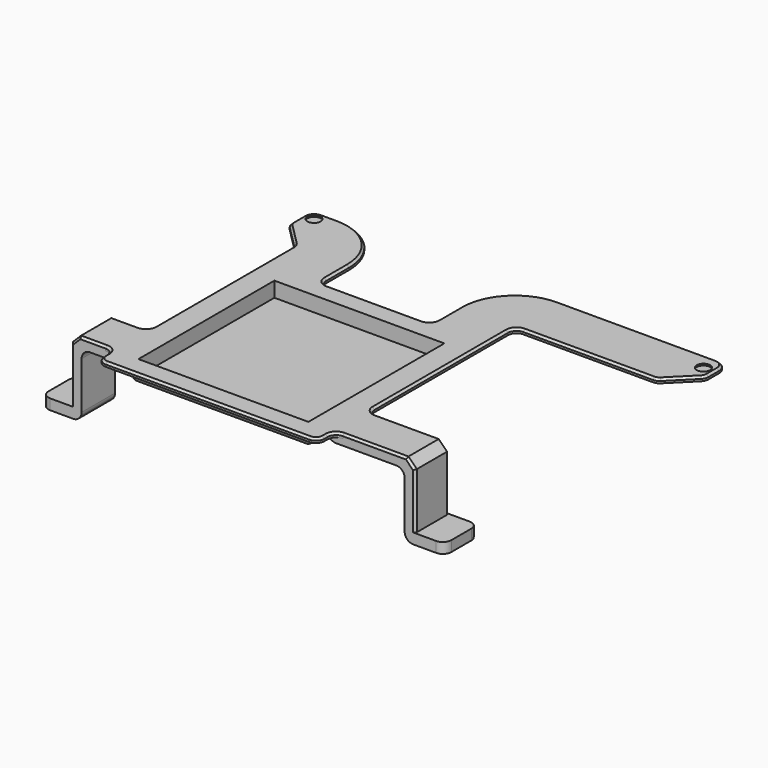
from build123d import *

# Parameters (mm, degrees)
SKETCH002_R        = 1.8
SKETCH002_W        = 81
SKETCH002_H        = 81
PAD_DEPTH          = 2
SKETCH003_R        = 3.2
POCKET_DEPTH       = 0.8
SKETCH006_R        = 1.8
PAD002_DEPTH       = 0.12
PAD001_DEPTH       = 20
CHAMFER001_SIZE2   = 2.99
CHAMFER001_SIZE    = 7.5
CHAMFER002_SIZE    = 4
FILLET_R           = 4
CHAMFER003_SIZE    = 1
SKETCH005_R        = 2.2
POCKET001_DEPTH    = 33.501
SKETCH010_R        = 2.2
PAD006_DEPTH       = 0.12
SKETCH007_W        = 85
SKETCH007_H        = 85
SKETCH007_W_2      = 81
SKETCH007_H_2      = 81
PAD003_DEPTH       = 7
SKETCH008_W        = 81
SKETCH008_H        = 81
SKETCH008_R        = 2.5
PAD004_DEPTH       = 1.8
CHAMFER_SIZE       = 1.2
SKETCH009_R        = 2.5
PAD005_DEPTH       = 0.12
FILLET001_R        = 2
POCKET002_DEPTH    = 1.68
POLARPATTERN_COUNT = 8
SKETCH014_R        = 39
POCKET003_DEPTH    = 0.1


with BuildPart() as part:
    # Sketch002 → Pad (new body)
    with BuildSketch(Plane.XY):
        with BuildLine():
            Line((-65, 88.5), (-65, 80))
            Line((-65, 80), (-52.5, 67.5))
            Line((-52.5, 67.5), (-52.5, -20))
            Line((-52.5, -20), (-73, -20))
            Line((-73, -20), (-73, -40))
            Line((-73, -40), (-52.5, -40))
            Line((-52.5, -40), (-52.5, -50))
            Line((-52.5, -50), (52.5, -50))
            Line((52.5, -50), (52.5, -40))
            Line((52.5, -40), (91, -40))
            Line((91, -40), (91, -20))
            Line((91, -20), (52.5, -20))
            Line((52.5, -20), (52.5, 67.5))
            Line((52.5, 67.5), (120, 67.5))
            Line((120, 67.5), (133, 80.5))
            Line((133, 80.5), (133, 88.5))
            ThreePointArc((133, 88.5), (131.535534, 92.035534), (128, 93.5))
            Line((128, 93.5), (52.5, 93.5))
            ThreePointArc((52.5, 93.5), (34.115224, 85.884776), (26.5, 67.5))
            Line((26.5, 50), (26.5, 67.5))
            Line((-26.5, 50), (26.5, 50))
            Line((-26.5, 67.5), (-26.5, 50))
            ThreePointArc((-26.5, 67.5), (-34.115224, 85.884776), (-52.5, 93.5))
            Line((-60, 93.5), (-52.5, 93.5))
            ThreePointArc((-60, 93.5), (-63.535534, 92.035534), (-65, 88.5))
        make_face()
        with Locations((-60, 88.5)):
            Circle(SKETCH002_R, mode=Mode.SUBTRACT)
        with Locations((128, 85.5)):
            Circle(SKETCH002_R, mode=Mode.SUBTRACT)
        Rectangle(SKETCH002_W, SKETCH002_H, mode=Mode.SUBTRACT)
    extrude(amount=PAD_DEPTH)

    # Sketch003 → Pocket (cut)
    with BuildSketch(Plane.XY.offset(2)):
        with Locations((-60, 88.5)):
            Circle(SKETCH003_R)
        with Locations((128, 85.5)):
            Circle(SKETCH003_R)
    extrude(amount=-POCKET_DEPTH, mode=Mode.SUBTRACT)

    # Sketch006 → Pad002 (join)
    with BuildSketch(Plane.XY.offset(1.2)):
        with Locations((-60, 88.5)):
            Circle(SKETCH006_R)
        with Locations((128, 85.5)):
            Circle(SKETCH006_R)
    extrude(amount=-PAD002_DEPTH)

    # Sketch004 (on DatumPlane) → Pad001 (join)
    with BuildSketch(Plane(origin=(-87, -40, 0), x_dir=(-1, 0, 0), z_dir=(0, 1, 0))):
        Polygon((-178, 0), (-139.5, 0), (-139.5, -3), (-173, -3), (-173, -33.5), (-192, -33.5), (-192, -28.5), (-178, -28.5), align=None)
        Polygon((-14, 0), (-34.5, 0), (-34.5, -3), (-19, -3), (-19, -33.5), (0, -33.5), (0, -28.5), (-14, -28.5), align=None)
    extrude(amount=PAD001_DEPTH)

    # Chamfer001
    chamfer001_edges = [part.edges().sort_by_distance(p)[0] for p in [
        (-52.5, -30, 0),
        (52.5, -30, 0),
    ]]
    chamfer001_side = part.faces().sort_by_distance((-56.25, 91.054673, 0))[0]
    chamfer(chamfer001_edges, length=CHAMFER001_SIZE, length2=CHAMFER001_SIZE2, reference=chamfer001_side)

    # Chamfer002
    chamfer002_edges = [part.edges().sort_by_distance(p)[0] for p in [
        (91, -30, 2),
        (-73, -30, 2),
    ]]
    chamfer(chamfer002_edges, length=CHAMFER002_SIZE)

    # Fillet
    fillet_edges = [part.edges().sort_by_distance(p)[0] for p in [
        (105, -40, -31),
        (-87, -40, -31),
        (-68, -30, -33.5),
        (86, -30, -33.5),
        (-87, -20, -31),
        (105, -20, -31),
        (86, -30, -3),
        (-68, -30, -3),
        (52.5, -20, 1),
        (52.5, -40, 1),
        (52.5, -50, 1),
        (-52.5, -50, 1),
        (-52.5, -40, 1),
        (-26.5, 50, 1),
        (26.5, 50, 1),
        (52.5, 67.5, 1),
        (120, 67.5, 1),
        (133, 80.5, 1),
        (-52.5, 67.5, 1),
        (-65, 80, 1),
        (-52.5, -20, 1),
    ]]
    fillet(fillet_edges, radius=FILLET_R)

    # Chamfer003
    chamfer003_edges = [part.edges().sort_by_distance(p)[0] for p in [
        (0, 50, 2),
        (0, -50, 2),
        (91, -40, -15.25),
        (89, -40, 0),
        (89, -20, 0),
        (91, -20, -15.25),
        (-71, -40, 0),
        (-71, -20, 0),
        (-73, -20, -15.25),
        (-73, -40, -15.25),
    ]]
    chamfer(chamfer003_edges, length=CHAMFER003_SIZE)

    # Sketch005 → Pocket001 (cut, through all)
    with BuildSketch(Plane.XY):
        with Locations((-80, -30)):
            Circle(SKETCH005_R)
        with Locations((98, -30)):
            Circle(SKETCH005_R)
    extrude(amount=-POCKET001_DEPTH, mode=Mode.SUBTRACT)

    # Sketch010 (on Face105 of Pocket001) → Pad006 (join)
    with BuildSketch(Plane.XY.offset(-28.5)):
        with Locations((-80, -30)):
            Circle(SKETCH010_R)
        with Locations((98, -30)):
            Circle(SKETCH010_R)
    extrude(amount=-PAD006_DEPTH)

    # Sketch007 → Pad003 (join)
    with BuildSketch(Plane.XY):
        Rectangle(SKETCH007_W, SKETCH007_H)
        Rectangle(SKETCH007_W_2, SKETCH007_H_2, mode=Mode.SUBTRACT)
    extrude(amount=-PAD003_DEPTH)

    # Sketch008 → Pad004 (join)
    with BuildSketch(Plane.XY.offset(-7)):
        Rectangle(SKETCH008_W, SKETCH008_H)
        with Locations((-35.7, 35.7)):
            Circle(SKETCH008_R, mode=Mode.SUBTRACT)
        with Locations((35.7, 35.7)):
            Circle(SKETCH008_R, mode=Mode.SUBTRACT)
        with Locations((35.7, -35.7)):
            Circle(SKETCH008_R, mode=Mode.SUBTRACT)
        with Locations((-35.7, -35.7)):
            Circle(SKETCH008_R, mode=Mode.SUBTRACT)
    extrude(amount=PAD004_DEPTH)

    # Chamfer
    chamfer_edges = [part.edges().sort_by_distance(p)[0] for p in [
        (33.2, 35.7, -7),
        (-38.2, 35.7, -7),
        (-38.2, -35.7, -7),
        (33.2, -35.7, -7),
    ]]
    chamfer(chamfer_edges, length=CHAMFER_SIZE)

    # Sketch009 → Pad005 (join)
    with BuildSketch(Plane.XY.offset(-5.2)):
        with Locations((-35.7, 35.7)):
            Circle(SKETCH009_R)
        with Locations((35.7, 35.7)):
            Circle(SKETCH009_R)
        with Locations((35.7, -35.7)):
            Circle(SKETCH009_R)
        with Locations((-35.7, -35.7)):
            Circle(SKETCH009_R)
    extrude(amount=-PAD005_DEPTH)

    # Fillet001
    fillet001_edges = [part.edges().sort_by_distance(p)[0] for p in [
        (42.5, 42.5, -3.5),
        (-42.5, 42.5, -3.5),
        (0, 42.5, 0),
        (0, 42.5, -7),
        (-42.5, -42.5, -3.5),
        (-42.5, 0, 0),
        (-42.5, 0, -7),
        (42.5, -42.5, -3.5),
        (0, -42.5, 0),
        (0, -42.5, -7),
        (42.5, 0, 0),
        (42.5, 0, -7),
    ]]
    fillet(fillet001_edges, radius=FILLET001_R)

    # Sketch013 → Pocket002 (cut)
    with BuildSketch(Plane.XY.offset(-7)):
        with BuildLine():
            Line((0.8, 14.978651), (0.8, 26.185223))
            ThreePointArc((17.950063, 19.081434), (10.025326, 24.203279), (0.8, 26.185223))
            Line((10.025821, 11.157191), (17.950063, 19.081434))
            ThreePointArc((10.025821, 11.157191), (5.740251, 13.858193), (0.8, 14.978651))
        make_face()
        with BuildLine():
            ThreePointArc((19.081434, 20.212805), (10.637351, 25.680837), (0.8, 27.785223))
            Line((0.8, 27.785223), (0.8, 38.991794))
            ThreePointArc((27.005677, 28.137047), (14.924654, 36.031302), (0.8, 38.991794))
            Line((19.081434, 20.212805), (27.005677, 28.137047))
        make_face()
    pocket002 = extrude(amount=POCKET002_DEPTH, mode=Mode.SUBTRACT)

    # PolarPattern: Pocket002 ×8 about axis
    polarpattern_axis = Axis((0, 0, -7), (0, 0, 1))
    for i in range(1, POLARPATTERN_COUNT):
        add(pocket002.rotate(polarpattern_axis, i * 360 / POLARPATTERN_COUNT), mode=Mode.SUBTRACT)

    # Sketch014 → Pocket003 (cut)
    with BuildSketch(Plane.XY.offset(-7)):
        Circle(SKETCH014_R)
    extrude(amount=-POCKET003_DEPTH, mode=Mode.SUBTRACT)


solid = part.part
